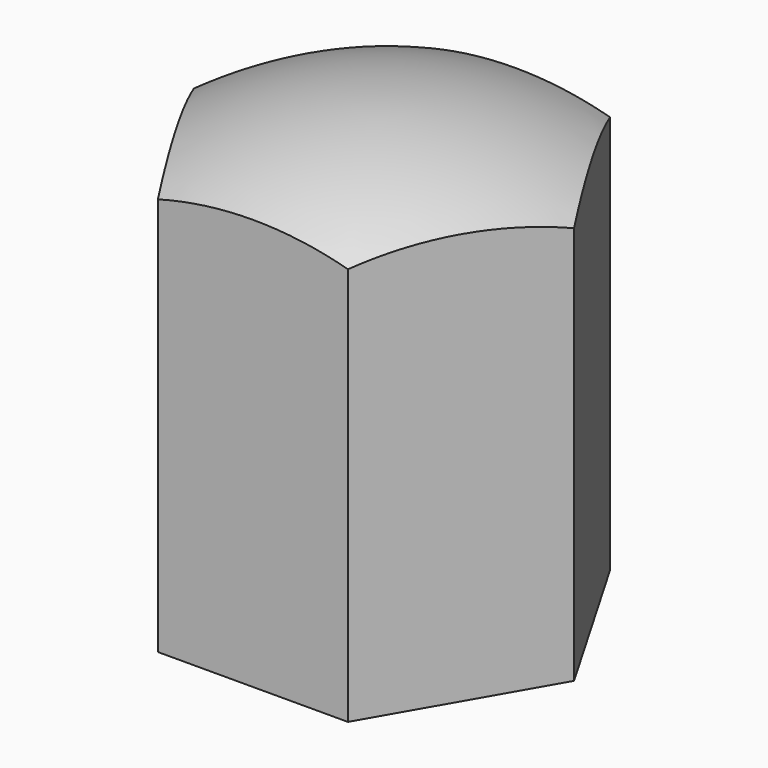
from build123d import *

# Parameters (mm, degrees)
F3_D     = 4.2
F3_DEPTH = 12
F3_TIP   = 1.2618073
F5_DEPTH = 13.6086951546


with BuildPart() as f1:
    # F0 (on Front) → F1 (revolve)
    with BuildSketch(Plane.XZ):
        with BuildLine():
            Line((-6, 12), (-6, 0))
            Line((-6, 0), (0, 0))
            Line((0, 0), (0, 13.6076951546))
            ThreePointArc((0, 13.6076951546), (-3.1058285412, 13.1988050701), (-6, 12))
        make_face()
    revolve(axis=Axis((0, 0, 6.8038475773), (0, 0, -1)))

    # F3
    with Locations(Plane(origin=(0, 0, 0), x_dir=(1, 0, 0), z_dir=(0, 0, -1))):
        with Locations((0, 0)):
            Hole(F3_D / 2, depth=F3_DEPTH)
            with Locations((0, 0, -(F3_DEPTH + F3_TIP / 2))):  # 118° drill point
                Cone(0, F3_D / 2, F3_TIP, mode=Mode.SUBTRACT)

    # F4 (on Top) → F5 (intersect, through all)
    with BuildSketch(Plane.XY):
        Polygon((-2.897095172, 4.9940137062), (-5.7734903224, -0.011951163), (-2.8763951504, -5.0059648692), (2.897095172, -4.9940137062), (5.7734903224, 0.011951163), (2.8763951504, 5.0059648692), align=None)
    extrude(amount=F5_DEPTH, mode=Mode.INTERSECT)


solid = f1.part
